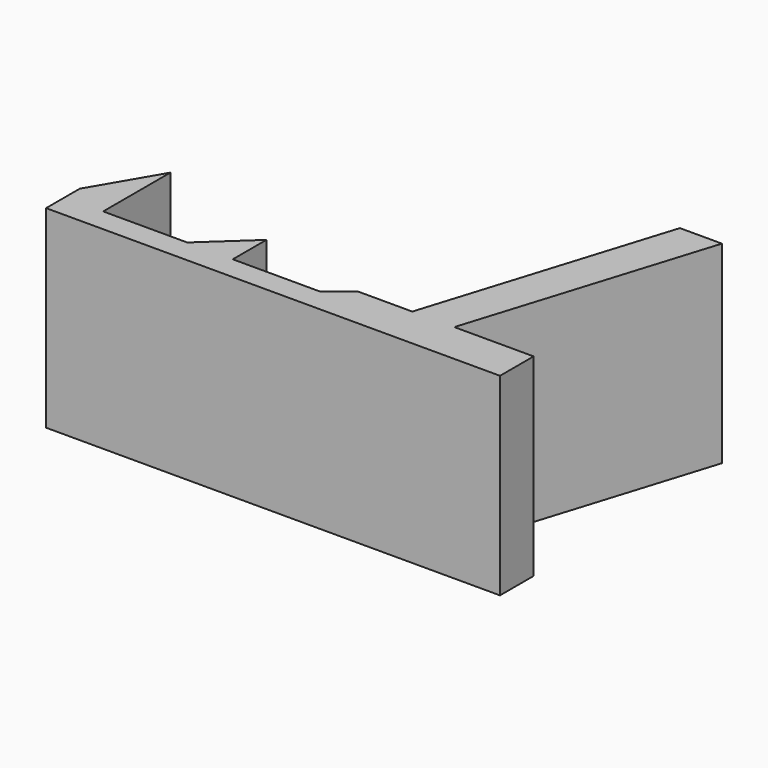
from build123d import *

# Parameters (mm, degrees)
F1_DEPTH = 23


with BuildPart() as f1:
    # F0 (on Top) → F1 (new body)
    with BuildSketch(Plane.XY):
        Polygon((-27, 2.207249), (-27, -2.792751), (27, -2.792751), (27, 2.207249), (17.565055, 2.207249), (12.565055, 2.207249), (6.050185, 2.207249), (3.317844, 0), (-6.682156, 0), (-7.026023, 0), (-7.026023, 5), (-12.444239, 0), (-22.444239, 0), (-22.444239, 10), align=None)
        Polygon((12.565055, 2.207249), (17.565055, 2.207249), (26.487442, 30.849717), (21.487442, 30.849717), align=None)
    extrude(amount=F1_DEPTH)


solid = f1.part
